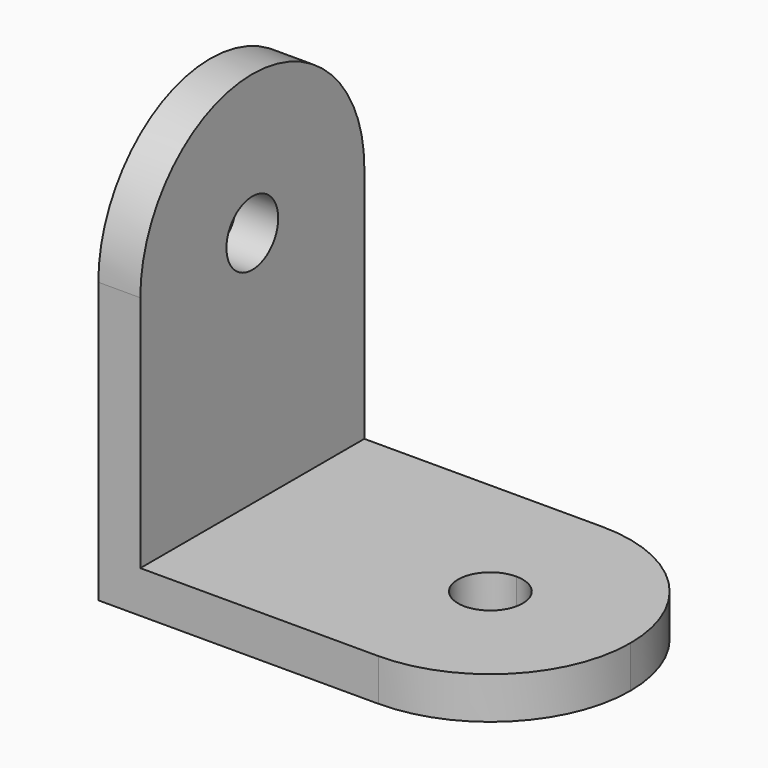
from build123d import *

# Parameters (mm, degrees)
F1_DEPTH = 3
F3_DEPTH = 3


with BuildPart() as f1:
    # F0 (on Top) → F1 (new body)
    with BuildSketch(Plane.XY):
        with BuildLine():
            ThreePointArc((10, 10), (0, 0), (10, -10))
            Line((10, -10), (10, -2.3114))
            ThreePointArc((10, -2.3114), (7.6886, 0), (10, 2.3114))
            Line((10, 2.3114), (10, 10))
        make_face()
        with BuildLine():
            Line((-10, -10), (10, -10))
            ThreePointArc((10, -10), (0, 0), (10, 10))
            Line((10, 10), (-10, 10))
            Line((-10, 10), (-10, -10))
        make_face()
        with BuildLine():
            Line((10, -2.3114), (10, -10))
            ThreePointArc((10, -10), (17.0710678119, -7.0710678119), (20, 0))
            ThreePointArc((20, 0), (17.0710678119, 7.0710678119), (10, 10))
            Line((10, 10), (10, 2.3114))
            ThreePointArc((10, 2.3114), (11.634406614, 1.634406614), (12.3114, 0))
            ThreePointArc((12.3114, 0), (11.634406614, -1.634406614), (10, -2.3114))
        make_face()
    extrude(amount=F1_DEPTH)

    # F2 (on face) → F3 (join)
    with BuildSketch(Plane(origin=(-10, 0, 0), x_dir=(0, -1, 0), z_dir=(-1, 0, 0))):
        with BuildLine():
            Line((-10, 20), (-10, 0))
            Line((-10, 0), (10, 0))
            Line((10, 0), (10, 20))
            ThreePointArc((10, 20), (0, 10), (-10, 20))
        make_face()
        with BuildLine():
            ThreePointArc((10, 20), (0, 30), (-10, 20))
            Line((-10, 20), (-2.3114, 20))
            ThreePointArc((-2.3114, 20), (0, 22.3114), (2.3114, 20))
            Line((2.3114, 20), (10, 20))
        make_face()
        with BuildLine():
            Line((-2.3114, 20), (-10, 20))
            ThreePointArc((-10, 20), (0, 10), (10, 20))
            Line((10, 20), (2.3114, 20))
            ThreePointArc((2.3114, 20), (0, 17.6886), (-2.3114, 20))
        make_face()
    extrude(amount=-F3_DEPTH)


solid = f1.part
